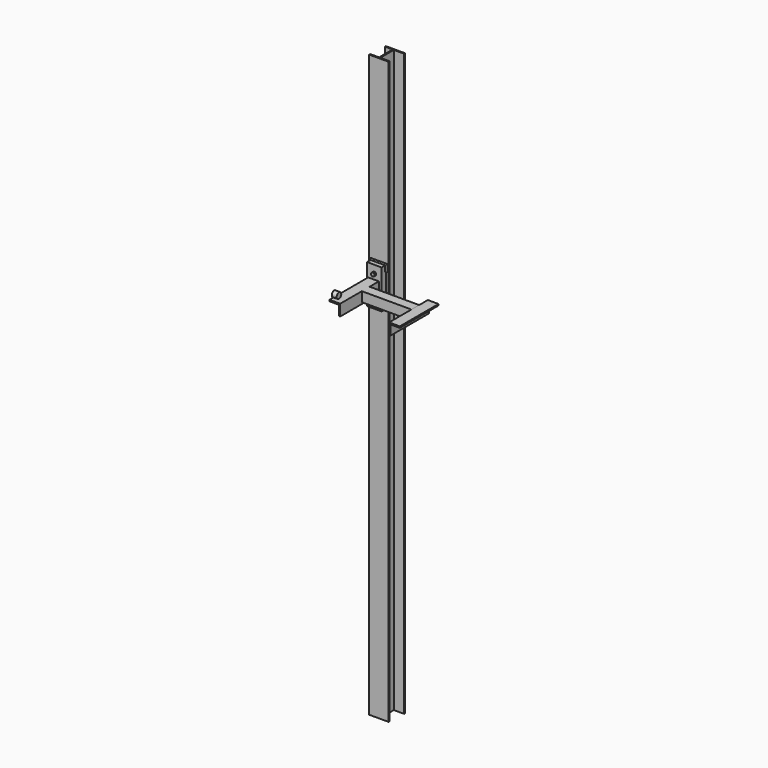
from build123d import *

# Parameters (mm, degrees)
F1_DEPTH       = 3000
F2_W           = 75
F2_H           = 200
F3_DEPTH       = 20
F4_W           = 75
F4_H           = 200
F5_DEPTH       = 9
F6_R           = 9.5
F6_R_2         = 9.2893697212
F7_DEPTH       = 10
F9_DEPTH       = 250
F11_DEPTH      = 256
F13_DEPTH      = 150
F13_DEPTH_BACK = 100
F14_W          = 6
F14_H          = 31
F15_DEPTH      = 6
F16_R          = 5
F18_DEPTH      = 25


with BuildPart() as f1:
    # F0 (on Top) → F1 (new body)
    with BuildSketch(Plane.XY):
        Polygon((50, 6.6492896937), (1.9371941397, 6.6492896937), (1.9371941397, 94), (55.4691165686, 94), (55.4691165686, 100), (-44.5308834314, 100), (-44.5308834314, 94), (-4.0628058603, 94), (-4.0628058603, 6.4519625157), (-50, 6.4519625157), (-50, 0), (50, 0), align=None)
    extrude(amount=F1_DEPTH)

    # F2 (on face) → F3 (join)
    with BuildSketch(Plane.XZ):
        with Locations((0, 1973.070799336)):
            Rectangle(F2_W, F2_H)
    extrude(amount=F3_DEPTH)

    # F4 (on face) → F5 (join)
    with BuildSketch(Plane.XZ.offset(20)):
        with Locations((0, 1973.070799336)):
            Rectangle(F4_W, F4_H)
    extrude(amount=F5_DEPTH)

    # F6 (on face) → F7 (join)
    with BuildSketch(Plane.XZ.offset(29)):
        with Locations((0, 2032.6464176178)):
            Circle(F6_R)
        with Locations((0, 1914.1513109207)):
            Circle(F6_R_2)
    extrude(amount=F7_DEPTH)

    # F8 (on face) → F9 (join)
    with BuildSketch(Plane.XZ.offset(29)):
        Polygon((16.7395353317, 1946.8668699265), (23.2324238867, 1946.8668699265), (23.2324238867, 2005.3029060364), (-31.9571409374, 2005.3029060364), (-31.9571409374, 1998.1607198715), (16.7395353317, 1998.1607198715), align=None)
    extrude(amount=F9_DEPTH)

    # F10 (on face) → F11 (join)
    with BuildSketch(Plane.YZ.offset(23.2324238867)):
        Polygon((-139, 1955.3029060364), (-133, 1955.3029060364), (-133, 1999.3029060364), (-89, 1999.3029060364), (-89, 2005.3029060364), (-139, 2005.3029060364), align=None)
    extrude(amount=F11_DEPTH)

    # F14 (on face) → F15 (join)
    with BuildSketch(Plane.XZ):
        with Locations((-40.5, 2057.570799336)):
            Rectangle(F14_W, F14_H)
        Polygon((-43.5, 2073.070799336), (-37.5, 2073.070799336), (37.5, 2073.070799336), (43.5, 2073.070799336), (43.5, 2079.070799336), (-43.5, 2079.070799336), align=None)
        with Locations((40.5, 2057.570799336)):
            Rectangle(F14_W, F14_H)
        with Locations((40.5, 1888.570799336)):
            Rectangle(F14_W, F14_H)
        Polygon((-37.5, 1873.070799336), (-43.5, 1873.070799336), (-43.5, 1867.070799336), (43.5, 1867.070799336), (43.5, 1873.070799336), (37.5, 1873.070799336), align=None)
        with Locations((-40.5, 1888.570799336)):
            Rectangle(F14_W, F14_H)
    extrude(amount=F15_DEPTH)

    # F16
    f16_edges = [f1.edges().sort_by_distance(p)[0] for p in [
        (-43.5, -6, 2060.570799),
        (0, -6, 2079.070799),
        (43.5, -6, 2060.570799),
        (43.5, -6, 1885.570799),
        (0, -6, 1867.070799),
        (-43.5, -6, 1885.570799),
    ]]
    fillet(f16_edges, radius=F16_R)


with BuildPart() as f13:
    # F12 (on face) → F13 (new body, two sides)
    with BuildSketch(Plane(origin=(0, -133, 0), x_dir=(-1, 0, 0), z_dir=(0, 1, 0))) as f13_sk:
        Polygon((-285.7272495925, 1946.8668699265), (-279.2324238867, 1946.8668699265), (-279.2324238867, 2005.3029060364), (-334.4239258617, 2005.3029060364), (-334.4239258617, 1998.1607198715), (-285.7272495925, 1998.1607198715), align=None)
    extrude(amount=-F13_DEPTH)
    extrude(f13_sk.sketch, amount=F13_DEPTH_BACK)


with BuildPart() as f18:
    # F17 (on face) → F18 (new body)
    with BuildSketch(Plane(origin=(-31.9571409374, 0, 0), x_dir=(0, -1, 0), z_dir=(-1, 0, 0))):
        with BuildLine():
            ThreePointArc((264, 2020.3029060364), (238.3933982822, 2030.9095077542), (249, 2005.3029060364))
            ThreePointArc((249, 2005.3029060364), (259.6066017178, 2009.6963043186), (264, 2020.3029060364))
        make_face()
    extrude(amount=-F18_DEPTH)


solid = Compound([f1.part, f13.part, f18.part])
